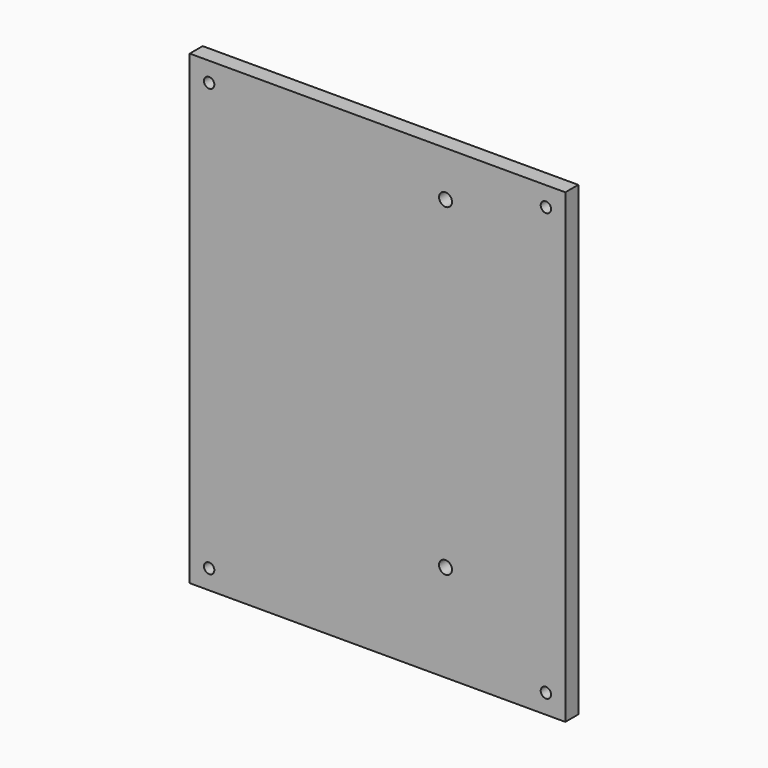
from build123d import *

# Parameters (mm, degrees)
CYLINDER095_R           = 2
CYLINDER095_DEPTH       = 10
CYLINDER095_ROLL_ANGLE  = 90
CYLINDER098_R           = 2
CYLINDER098_DEPTH       = 10
CYLINDER098_ROLL_ANGLE  = 90
CYLINDER019_R           = 1.6
CYLINDER019_DEPTH       = 40
CYLINDER019_PITCH_ANGLE = 90
CYLINDER018_R           = 1.6
CYLINDER018_DEPTH       = 40
CYLINDER018_PITCH_ANGLE = 90
CYLINDER017_R           = 1.6
CYLINDER017_DEPTH       = 40
CYLINDER016_R           = 1.6
CYLINDER016_DEPTH       = 70
CYLINDER016_ROLL_ANGLE  = 90
CYLINDER015_R           = 1.6
CYLINDER015_DEPTH       = 40
BOX018_W                = 116
BOX018_H                = 5
BOX018_DEPTH            = 144


with BuildPart() as cylinder372:
    # Cylinder095 → Cylinder095 (new body)
    with BuildSketch(Plane.XY):
        Circle(CYLINDER095_R)
    extrude(amount=CYLINDER095_DEPTH)


with BuildPart() as cylinder372_1:
    # Cylinder095 roll: moved
    add(cylinder372.part.rotate(Axis((0, 0, 0), (1, 0, 0)), CYLINDER095_ROLL_ANGLE))


with BuildPart() as cylinder372_2:
    # Cylinder095 placement: moved
    add(cylinder372_1.part.moved(Location((49, 25, 30))))


with BuildPart() as cylinder375:
    # Cylinder098 → Cylinder098 (new body)
    with BuildSketch(Plane.XY):
        Circle(CYLINDER098_R)
    extrude(amount=CYLINDER098_DEPTH)


with BuildPart() as cylinder375_1:
    # Cylinder098 roll: moved
    add(cylinder375.part.rotate(Axis((0, 0, 0), (1, 0, 0)), CYLINDER098_ROLL_ANGLE))


with BuildPart() as cylinder375_2:
    # Cylinder098 placement: moved
    add(cylinder375_1.part.moved(Location((49, 25, 130))))


with BuildPart() as cylinder100:
    # Cylinder019 → Cylinder019 (new body)
    with BuildSketch(Plane.XY):
        Circle(CYLINDER019_R)
    extrude(amount=CYLINDER019_DEPTH)


with BuildPart() as cylinder100_1:
    # Cylinder019 pitch: moved
    add(cylinder100.part.rotate(Axis((0, 0, 0), (0, 1, 0)), CYLINDER019_PITCH_ANGLE))


with BuildPart() as cylinder100_2:
    # Cylinder019 placement: moved
    add(cylinder100_1.part.moved(Location((-40, 12, 9.5))))


with BuildPart() as fusion011:
    # Cylinder018 → Cylinder018 (new body)
    with BuildSketch(Plane.XY):
        Circle(CYLINDER018_R)
    extrude(amount=CYLINDER018_DEPTH)


with BuildPart() as fusion011_1:
    # Cylinder018 pitch: moved
    add(fusion011.part.rotate(Axis((0, 0, 0), (0, 1, 0)), CYLINDER018_PITCH_ANGLE))


with BuildPart() as fusion011_2:
    # Cylinder018 placement: moved
    add(fusion011_1.part.moved(Location((-40, -7, 2.5))))

    # Fusion011: union Cylinder100
    add(cylinder100_2.part)


with BuildPart() as fusion012:
    # Cylinder017 → Cylinder017 (new body)
    with BuildSketch(Plane(origin=(-27.5, 7, -15), x_dir=(1, 0, 0), z_dir=(0, 0, 1))):
        Circle(CYLINDER017_R)
    extrude(amount=CYLINDER017_DEPTH)

    # Fusion012: union Fusion011
    add(fusion011_2.part)


with BuildPart() as fusion013:
    # Cylinder016 → Cylinder016 (new body)
    with BuildSketch(Plane.XY):
        Circle(CYLINDER016_R)
    extrude(amount=CYLINDER016_DEPTH)


with BuildPart() as fusion013_1:
    # Cylinder016 roll: moved
    add(fusion013.part.rotate(Axis((0, 0, 0), (1, 0, 0)), CYLINDER016_ROLL_ANGLE))


with BuildPart() as fusion013_2:
    # Cylinder016 placement: moved
    add(fusion013_1.part.moved(Location((-24, 39, 6))))

    # Fusion013: union Fusion012
    add(fusion012.part)


with BuildPart() as cylinder008:
    # Cylinder015 → Cylinder015 (new body)
    with BuildSketch(Plane(origin=(-20.5, -12, -15), x_dir=(1, 0, 0), z_dir=(0, 0, 1))):
        Circle(CYLINDER015_R)
    extrude(amount=CYLINDER015_DEPTH)


with BuildPart() as face_corner_holes003:
    # Fusion017 base: copy of Cylinder008
    add(cylinder008.part)

    # Fusion017: union Fusion013
    add(fusion013_2.part)


with BuildPart() as face_corner_holes003_1:
    # Fusion017 placement: moved
    add(face_corner_holes003.part.moved(Location((104, 0, 132))))


with BuildPart() as face_corner_holes012:
    # Fusion026 base: copy of Cylinder008
    add(cylinder008.part)

    # Fusion026: union Fusion013
    add(fusion013_2.part)


with BuildPart() as face_corner_holes012_1:
    # Fusion026 placement: moved
    add(face_corner_holes012.part.moved(Location((0, 0, 132))))


with BuildPart() as face_corner_holes009:
    # Fusion023 base: copy of Cylinder008
    add(cylinder008.part)

    # Fusion023: union Fusion013
    add(fusion013_2.part)


with BuildPart() as face_corner_holes009_1:
    # Fusion023 placement: moved
    add(face_corner_holes009.part.moved(Location((104, 0, 0))))


with BuildPart() as face_corner_holes006:
    # Fusion020 base: copy of Cylinder008
    add(cylinder008.part)

    # Fusion020: union Fusion013
    add(fusion013_2.part)


with BuildPart() as front_a:
    # Box018 → Box018 (new body)
    with BuildSketch(Plane(origin=(-30, 17, 0), x_dir=(1, 0, 0), z_dir=(0, 0, 1))):
        with Locations((58, 2.5)):
            Rectangle(BOX018_W, BOX018_H)
    extrude(amount=BOX018_DEPTH)

    # Cut015: cut face-corner-holes006
    add(face_corner_holes006.part, mode=Mode.SUBTRACT)

    # Cut019: cut face-corner-holes009
    add(face_corner_holes009_1.part, mode=Mode.SUBTRACT)

    # Cut023: cut face-corner-holes012
    add(face_corner_holes012_1.part, mode=Mode.SUBTRACT)

    # Cut026: cut face-corner-holes003
    add(face_corner_holes003_1.part, mode=Mode.SUBTRACT)

    # Cut059: cut Cylinder375
    add(cylinder375_2.part, mode=Mode.SUBTRACT)

    # Cut060: cut Cylinder372
    add(cylinder372_2.part, mode=Mode.SUBTRACT)


solid = front_a.part
